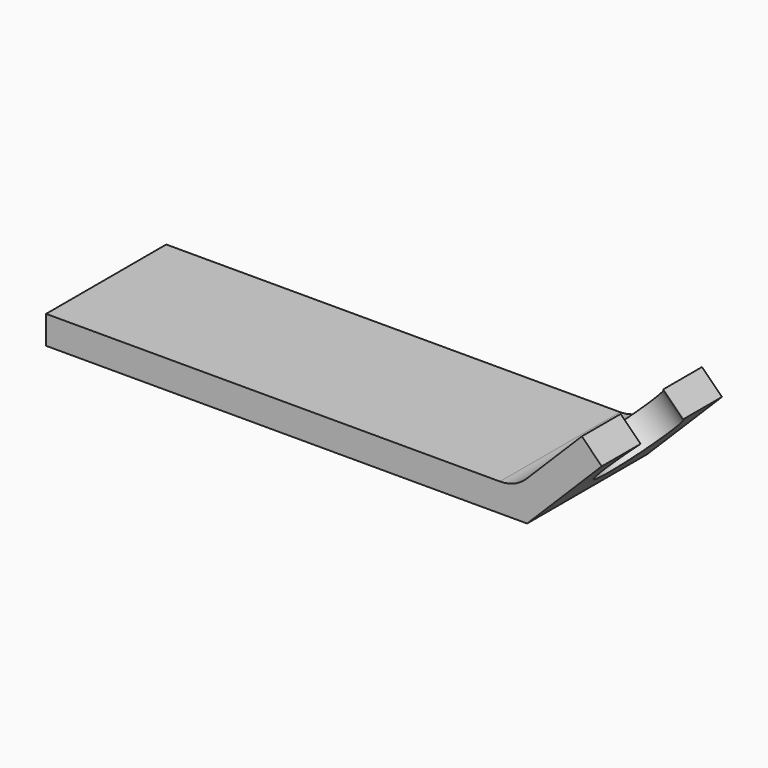
from build123d import *

# Parameters (mm, degrees)
F1_DEPTH = 16
F3_DEPTH = 25
F4_R     = 4


with BuildPart() as f1:
    # F0 (on Front) → F1 (new body)
    with BuildSketch(Plane.XZ):
        Polygon((9.1923881554, 9.1923881554), (0, 0), (-50, 0), (-50, -3), (1.2426406871, -3), (11.313708499, 7.0710678119), align=None)
    extrude(amount=F1_DEPTH)

    # F2 (on face) → F3 (cut)
    with BuildSketch(Plane(origin=(0, 0, 0), x_dir=(0, -1, 0), z_dir=(-0.7071067812, 0, 0.7071067812))):
        with BuildLine():
            Line((5.1715728753, 10), (10.8284271247, 10))
            ThreePointArc((10.8284271247, 10), (8, 11), (5.1715728753, 10))
        make_face()
        with BuildLine():
            ThreePointArc((5.1715728753, 10), (6.0606601718, 2.4393398282), (12.5, 6.5))
            ThreePointArc((12.5, 6.5), (12.0606601718, 8.4393398282), (10.8284271247, 10))
            Line((10.8284271247, 10), (5.1715728753, 10))
        make_face()
        with BuildLine():
            ThreePointArc((5.1715728753, 10), (8, 11), (10.8284271247, 10))
            Line((10.8284271247, 10), (16, 10))
            Line((16, 10), (16, 13))
            Line((16, 13), (0, 13))
            Line((0, 13), (0, 10))
            Line((0, 10), (5.1715728753, 10))
        make_face()
    extrude(amount=-F3_DEPTH, mode=Mode.SUBTRACT)

    # F4
    f4_edges = [f1.edges().sort_by_distance(p)[0] for p in [
        (0, -8, 0),
    ]]
    fillet(f4_edges, radius=F4_R)


solid = f1.part
